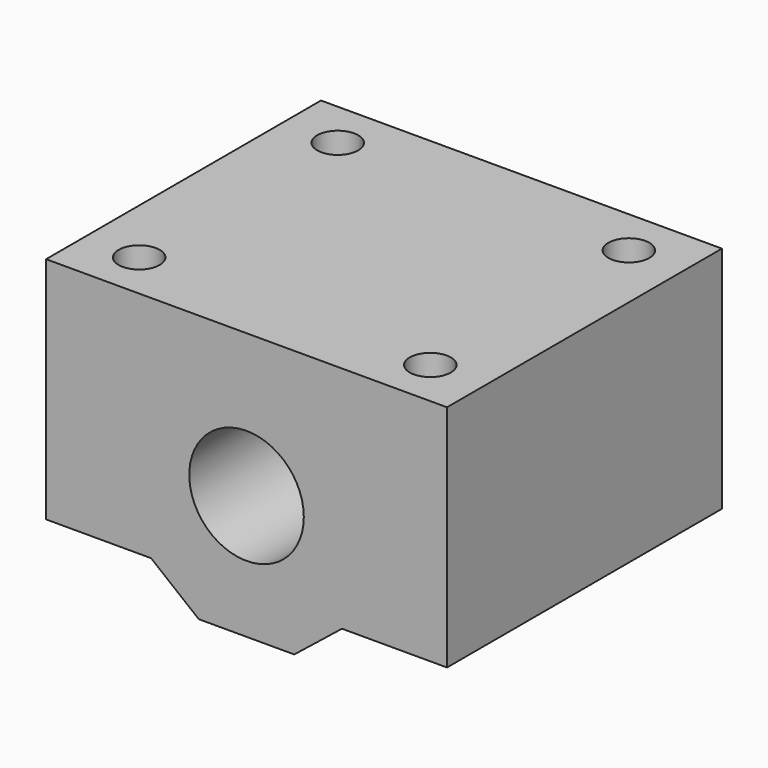
from build123d import *

# Parameters (mm, degrees)
F0_R     = 6
F1_DEPTH = 18
F3_D     = 4.3


with BuildPart() as f1:
    # F0 (on Front) → F1 (new body, symmetric)
    with BuildSketch(Plane.XZ):
        Polygon((21, 15), (-21, 15), (-21, -9), (-10, -9), (-5, -13), (0, -13), (5, -13), (10, -9), (21, -9), align=None)
        Circle(F0_R, mode=Mode.SUBTRACT)
    extrude(amount=F1_DEPTH, both=True)

    # F3 (through all)
    with Locations(Plane.XY.offset(15)):
        with Locations((-15.25, 13), (15.25, 13), (15.25, -13), (-15.25, -13)):
            Hole(F3_D / 2)


solid = f1.part
